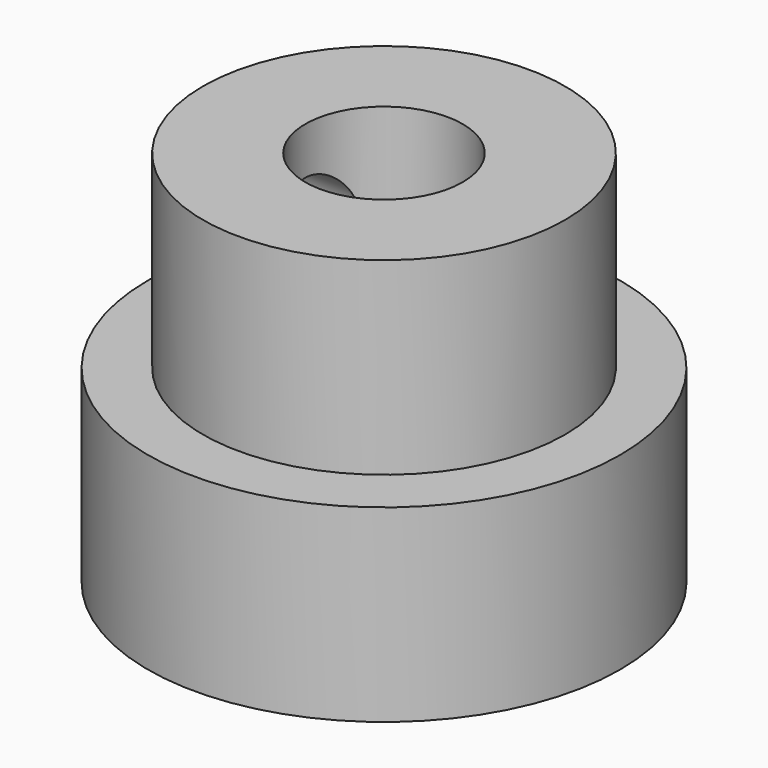
from build123d import *

# Parameters (mm, degrees)
F0_R     = 7.5
F1_DEPTH = 6
F2_R     = 5.75
F3_DEPTH = 6
F4_R     = 2.5
F5_DEPTH = 6
F6_R     = 4.5
F7_DEPTH = 6
F8_R     = 1.5
F9_DEPTH = 25


with BuildPart() as f1:
    # F0 (on Top) → F1 (new body)
    with BuildSketch(Plane.XY):
        Circle(F0_R)
    extrude(amount=F1_DEPTH)

    # F2 (on face) → F3 (join)
    with BuildSketch(Plane.XY.offset(6)):
        Circle(F2_R)
    extrude(amount=F3_DEPTH)

    # F4 (on face) → F5 (cut)
    with BuildSketch(Plane.XY.offset(12)):
        Circle(F4_R)
    extrude(amount=-F5_DEPTH, mode=Mode.SUBTRACT)

    # F6 (on face) → F7 (cut)
    with BuildSketch(Plane(origin=(0, 0, 0), x_dir=(1, 0, 0), z_dir=(0, 0, -1))):
        Circle(F6_R)
    extrude(amount=-F7_DEPTH, mode=Mode.SUBTRACT)

    # F8 (on Right) → F9 (cut)
    with BuildSketch(Plane.YZ):
        with Locations((0, 3)):
            Circle(F8_R)
        with Locations((0, 9)):
            Circle(F8_R)
    extrude(amount=-F9_DEPTH, mode=Mode.SUBTRACT)


solid = f1.part
